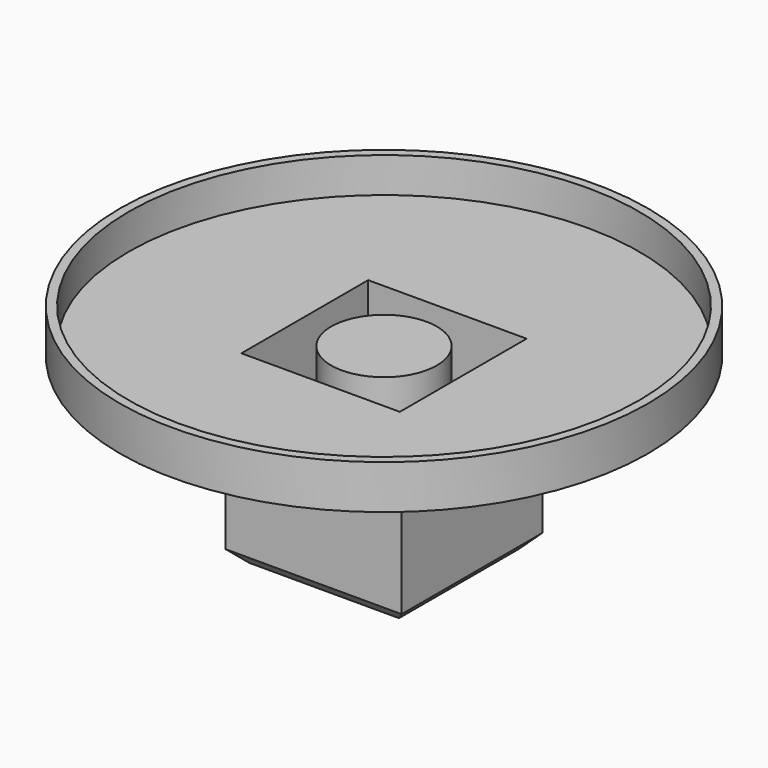
from build123d import *

# Parameters (mm, degrees)
F0_W     = 20
F0_H     = 20
F1_DEPTH = 20
F2_R     = 5
F3_DEPTH = 25
F4_R     = 30
F5_DEPTH = 5
F6_SIZE  = 1.5
F7_T     = -1


with BuildPart() as f1:
    # F0 (on Top) → F1 (new body)
    with BuildSketch(Plane.XY):
        Rectangle(F0_W, F0_H)
    extrude(amount=F1_DEPTH)

    # F2 (on face) → F3 (cut)
    with BuildSketch(Plane.XY.offset(20)):
        Circle(F2_R)
    extrude(amount=-F3_DEPTH, mode=Mode.SUBTRACT)

    # F4 (on face) → F5 (join)
    with BuildSketch(Plane.XY.offset(20)):
        Circle(F4_R)
    extrude(amount=F5_DEPTH)

    # F6
    f6_edges = [f1.edges().sort_by_distance(p)[0] for p in [
        (10, 0, 0),
        (0, 10, 0),
        (-10, 0, 0),
        (0, -10, 0),
    ]]
    chamfer(f6_edges, length=F6_SIZE)

    # F7
    f7_openings = [f1.faces().sort_by_distance(p)[0] for p in [
        (0, 0, 25),
    ]]
    offset(amount=F7_T, openings=f7_openings, kind=Kind.INTERSECTION)


solid = f1.part
